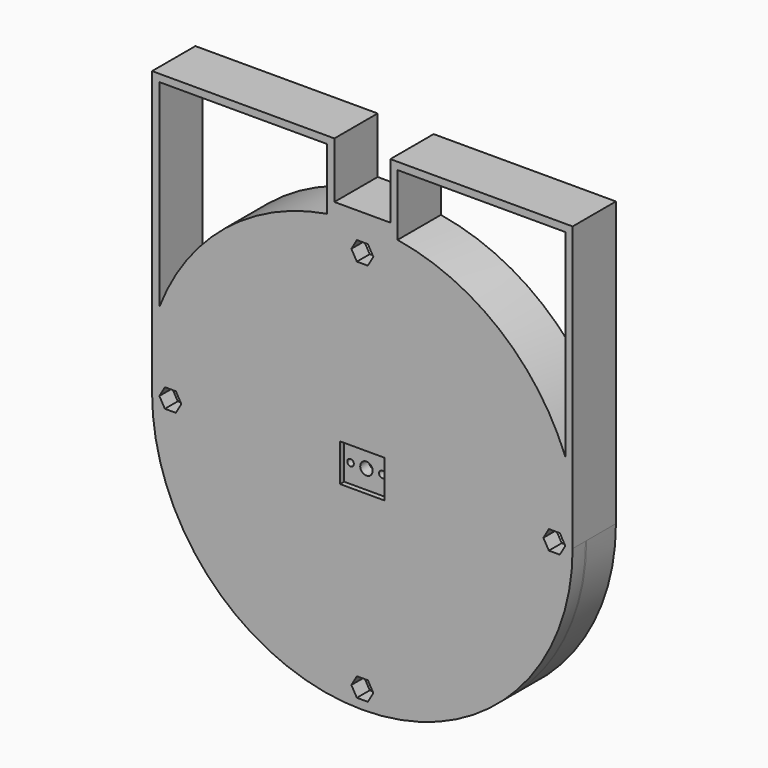
from build123d import *

# Parameters (mm, degrees)
SKETCH004_R     = 57.5
SKETCH004_R_2   = 50.2
PAD002_DEPTH    = 10
SKETCH005_R     = 57.5
SKETCH005_R_2   = 52.7
PAD003_DEPTH    = 10
SKETCH006_R     = 55.2
SKETCH006_R_2   = 45.630592
POCKET003_DEPTH = 10.001
SKETCH007_R     = 55.2
SKETCH007_R_2   = 52.7
PAD004_DEPTH    = 2.6
SKETCH009_R     = 57.5
SKETCH009_R_2   = 52.7
PAD005_DEPTH    = 0.4
SKETCH010_R     = 1.75
POCKET004_DEPTH = 5
SKETCH011_R     = 57.5
PAD006_DEPTH    = 4.4
SKETCH012_W     = 12.18
SKETCH012_H     = 10.29
POCKET005_DEPTH = 1.4
SKETCH013_R     = 1.7
POCKET006_DEPTH = 14.801
SKETCH014_R     = 0.9
POCKET007_DEPTH = 14.801
SKETCH015_R     = 1.55
POCKET008_DEPTH = 1
PAD007_DEPTH    = 14.8


with BuildPart() as part:
    # Sketch004 (on DatumPlane) → Pad002 (new body)
    with BuildSketch(Plane.XZ.offset(10)):
        Circle(SKETCH004_R)
        Circle(SKETCH004_R_2, mode=Mode.SUBTRACT)
    extrude(amount=-PAD002_DEPTH)

    # Sketch005 (on DatumPlane) → Pad003 (new body)
    with BuildSketch(Plane.XZ.offset(10)):
        Circle(SKETCH005_R)
        Circle(SKETCH005_R_2, mode=Mode.SUBTRACT)
    extrude(amount=-PAD003_DEPTH)

    # Sketch006 (on Face4 of PolarPattern002) → Pocket003 (cut, through all)
    with BuildSketch(Plane.XZ.offset(10)):
        Circle(SKETCH006_R)
        Circle(SKETCH006_R_2, mode=Mode.SUBTRACT)
    extrude(amount=-POCKET003_DEPTH, mode=Mode.SUBTRACT)

    # Sketch007 (on Face2 of Pocket003) → Pad004 (new body)
    with BuildSketch(Plane.XZ.offset(10)):
        Circle(SKETCH007_R)
        Circle(SKETCH007_R_2, mode=Mode.SUBTRACT)
    extrude(amount=-PAD004_DEPTH)

    # Sketch009 (on Face6 of Pad004) → Pad005 (new body)
    with BuildSketch(Plane.XZ.offset(10)):
        Circle(SKETCH009_R)
        Circle(SKETCH009_R_2, mode=Mode.SUBTRACT)
    extrude(amount=PAD005_DEPTH)

    # Sketch010 (on Face5 of Pad005) → Pocket004 (cut)
    with BuildSketch(Plane.XZ.offset(10.4)):
        with Locations((0, -52.5)):
            Circle(SKETCH010_R)
        with Locations((-52.5, 0)):
            Circle(SKETCH010_R)
        with Locations((0, 52.5)):
            Circle(SKETCH010_R)
        with Locations((52.5, 0)):
            Circle(SKETCH010_R)
    extrude(amount=-POCKET004_DEPTH, mode=Mode.SUBTRACT)

    # Sketch011 (on Face4 of Pocket004) → Pad006 (new body)
    with BuildSketch(Plane.XZ.offset(10.4)):
        Circle(SKETCH011_R)
        Polygon((3, -52.5), (1.5, -49.901924), (-1.5, -49.901924), (-3, -52.5), (-1.5, -55.098076), (1.5, -55.098076), align=None, mode=Mode.SUBTRACT)
        Polygon((3, 52.5), (1.5, 55.098076), (-1.5, 55.098076), (-3, 52.5), (-1.5, 49.901924), (1.5, 49.901924), align=None, mode=Mode.SUBTRACT)
        Polygon((-49.5, 0), (-51, 2.598076), (-54, 2.598076), (-55.5, 0), (-54, -2.598076), (-51, -2.598076), align=None, mode=Mode.SUBTRACT)
        Polygon((55.5, 0), (54, 2.598076), (51, 2.598076), (49.5, 0), (51, -2.598076), (54, -2.598076), align=None, mode=Mode.SUBTRACT)
    extrude(amount=PAD006_DEPTH)

    # Sketch012 (on Face13 of Pad006) → Pocket005 (cut)
    with BuildSketch(Plane.XZ.offset(14.8)):
        Rectangle(SKETCH012_W, SKETCH012_H)
    extrude(amount=-POCKET005_DEPTH, mode=Mode.SUBTRACT)

    # Sketch013 (on Face4 of Pocket005) → Pocket006 (cut, through all)
    with BuildSketch(Plane.XZ.offset(14.8)):
        Circle(SKETCH013_R)
    extrude(amount=-POCKET006_DEPTH, mode=Mode.SUBTRACT)

    # Sketch014 (on Face4 of Pocket006) → Pocket007 (cut, through all)
    with BuildSketch(Plane.XZ.offset(14.8)):
        with Locations((-4.35, 0)):
            Circle(SKETCH014_R)
        with Locations((4.35, 0)):
            Circle(SKETCH014_R)
    extrude(amount=-POCKET007_DEPTH, mode=Mode.SUBTRACT)

    # Sketch015 (on Face42 of Pocket007) → Pocket008 (cut)
    with BuildSketch(Plane(origin=(0, -10.4, 0), x_dir=(1, 0, 0), z_dir=(0, 1, 0))):
        with Locations((-4.35, 0)):
            Circle(SKETCH015_R)
        with Locations((4.35, 0)):
            Circle(SKETCH015_R)
    extrude(amount=-POCKET008_DEPTH, mode=Mode.SUBTRACT)

    # Sketch016 (on Face1 of Pocket008) → Pad007 (new body)
    with BuildSketch(Plane(origin=(0, 0, 0), x_dir=(1, 0, 0), z_dir=(0, 1, 0))):
        with BuildLine():
            Line((-7.65, -62.26), (7.65, -62.26))
            Line((7.65, -62.26), (7.65, -77.56))
            Line((7.65, -77.56), (57.5, -77.56))
            Line((57.5, 0), (57.5, -77.56))
            ThreePointArc((-57.5, 0), (0, -57.5), (57.5, 0))
            Line((-57.5, 0), (-57.5, -77.56))
            Line((-57.5, -77.56), (-7.65, -77.56))
            Line((-7.65, -62.26), (-7.65, -77.56))
        make_face()
        with BuildLine():
            Line((9.640661, -58.760865), (9.65, -75.56))
            Line((9.65, -75.56), (55.5, -75.56))
            Line((55.500076, -21.447651), (55.5, -75.56))
            ThreePointArc((9.640661, -58.760865), (37.533805, -46.204517), (55.500076, -21.447651))
        make_face(mode=Mode.SUBTRACT)
        with BuildLine():
            Line((-9.65, -75.56), (-55.5, -75.56))
            Line((-55.500076, -21.447651), (-55.5, -75.56))
            ThreePointArc((-55.500076, -21.447651), (-37.533805, -46.204517), (-9.640661, -58.760865))
            Line((-9.640661, -58.760865), (-9.65, -75.56))
        make_face(mode=Mode.SUBTRACT)
    extrude(amount=-PAD007_DEPTH)


solid = part.part
